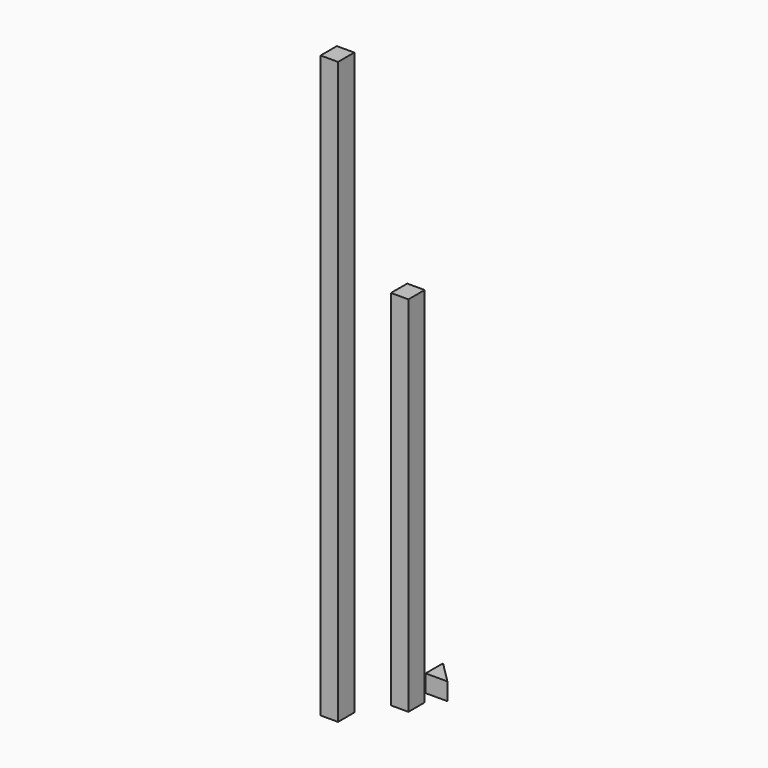
from build123d import *

# Parameters (mm, degrees)
F0_W     = 1.2
F0_H     = 1.4
F2_DEPTH = 40
F3_W     = 1.2
F3_H     = 1.4
F4_DEPTH = 25
F6_DEPTH = 1.2


with BuildPart() as f2:
    # F0 (on Top) → F2 (new body)
    with BuildSketch(Plane.XY):
        Rectangle(F0_W, F0_H)
    extrude(amount=F2_DEPTH)


with BuildPart() as f4:
    # F3 (on Top) → F4 (new body)
    with BuildSketch(Plane.XY):
        with Locations((2.223197, 3.277119)):
            Rectangle(F3_W, F3_H)
    extrude(amount=F4_DEPTH)


with BuildPart() as f6:
    # F5 (on Top) → F6 (new body)
    with BuildSketch(Plane.XY):
        Polygon((3.685026, 4.856107), (2.185026, 6.356107), (2.185026, 4.856107), align=None)
    extrude(amount=F6_DEPTH)


solid = Compound([f2.part, f4.part, f6.part])
